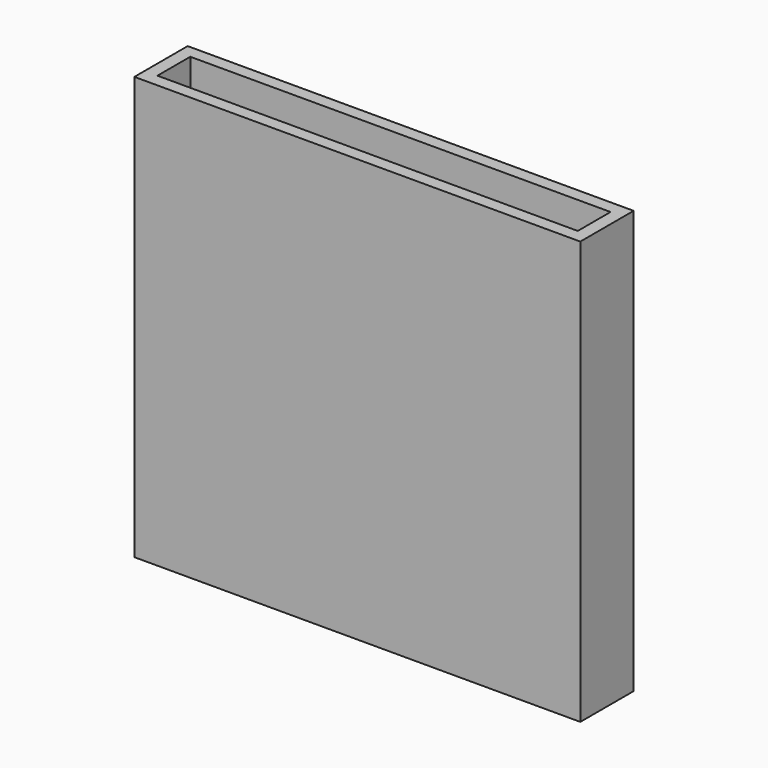
from build123d import *

# Parameters (mm, degrees)
F0_W     = 55.245
F0_H     = 8.255
F0_W_2   = 52.07
F0_H_2   = 5.08
F1_DEPTH = 52.3875
F2_DEPTH = 50.8


with BuildPart() as f1:
    # F0 (on Top) → F1 (new body)
    with BuildSketch(Plane.XY):
        Rectangle(F0_W, F0_H)
        Rectangle(F0_W_2, F0_H_2, mode=Mode.SUBTRACT)
        Rectangle(F0_W_2, F0_H_2)
    extrude(amount=-F1_DEPTH)

    # F0 (on Top) → F2 (cut)
    with BuildSketch(Plane.XY):
        Rectangle(F0_W_2, F0_H_2)
    extrude(amount=-F2_DEPTH, mode=Mode.SUBTRACT)


solid = f1.part
